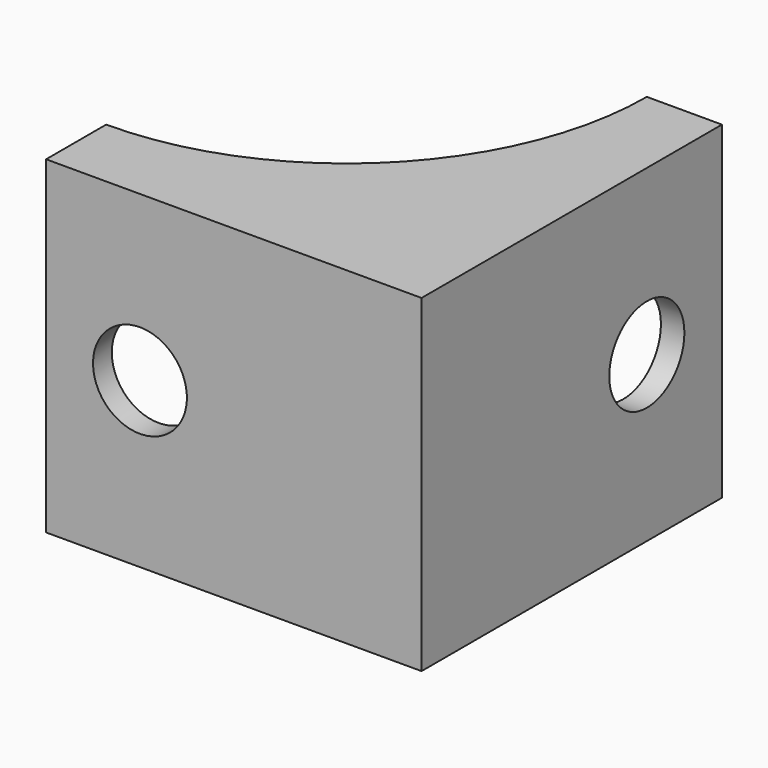
from build123d import *

# Parameters (mm, degrees)
F1_DEPTH = 35
F2_T     = -2.5
F3_DEPTH = 25
F4_DEPTH = 25
F6_D     = 10
F8_D     = 10


with BuildPart() as f1:
    # F0 (on Top) → F1 (new body)
    with BuildSketch(Plane.XY):
        with BuildLine():
            Line((-21.6037747636, 67.0103192031), (-29.6037747636, 67.0103192031))
            ThreePointArc((-29.6037747636, 67.0103192031), (-38.9763577657, 44.3829022052), (-61.6037747636, 35.0103192031))
            Line((-61.6037747636, 35.0103192031), (-61.6037747636, 27.0103192031))
            Line((-61.6037747636, 27.0103192031), (-21.6037747636, 27.0103192031))
            Line((-21.6037747636, 27.0103192031), (-21.6037747636, 67.0103192031))
        make_face()
    extrude(amount=F1_DEPTH)

    # F2
    f2_openings = [f1.faces().sort_by_distance(p)[0] for p in [
        (-38.976358, 44.382902, 17.5),
    ]]
    offset(amount=F2_T, openings=f2_openings)

    # F3 (cut): a face of the model
    f3_faces = [f1.faces().sort_by_distance(p)[0] for p in [
        (-26.9026776227, 64.5103192031, 17.5),
    ]]
    extrude(f3_faces, amount=-F3_DEPTH, mode=Mode.SUBTRACT)

    # F4 (cut): a face of the model
    f4_faces = [f1.faces().sort_by_distance(p)[0] for p in [
        (-59.1037747636, 32.3092220622, 17.5),
    ]]
    extrude(f4_faces, amount=-F4_DEPTH, mode=Mode.SUBTRACT)

    # F6 (through all)
    with Locations(Plane(origin=(-24.1037747636, 0, 0), x_dir=(0, -1, 0), z_dir=(-1, 0, 0))):
        with Locations((-57.0103192031, 17.5)):
            Hole(F6_D / 2)

    # F8 (through all)
    with Locations(Plane.XZ.offset(-27.0103192031)):
        with Locations((-51.6037747636, 17.5)):
            Hole(F8_D / 2)


solid = f1.part
